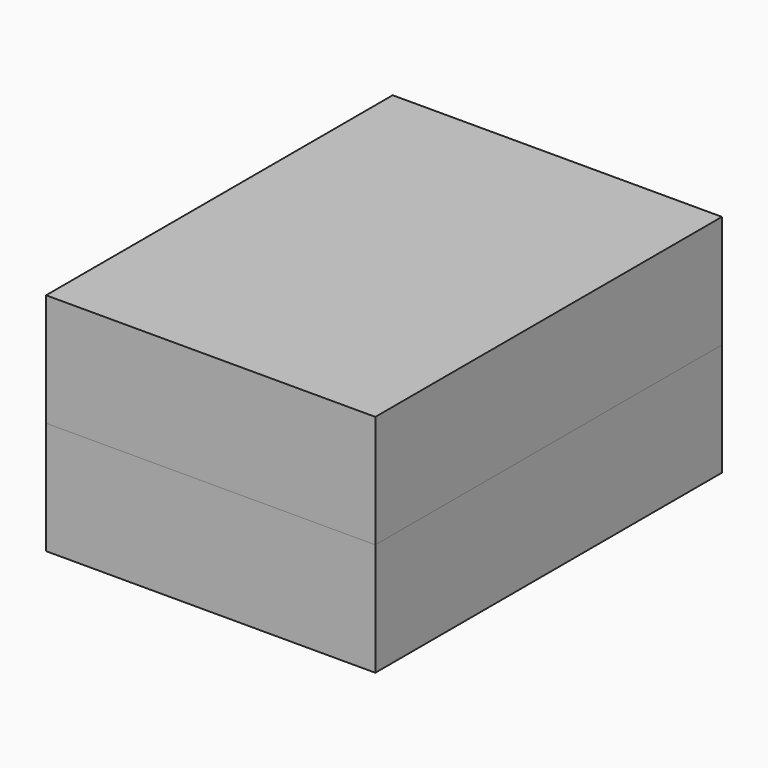
from build123d import *

# Parameters (mm, degrees)
F0_W     = 6.858
F0_H     = 3.048
F1_DEPTH = 25.4
F2_DEPTH = 25.4


with BuildPart() as f1:
    # F0 (on Front) → F1 (new body)
    with BuildSketch(Plane.XZ):
        Polygon((9.652, 0), (9.652, 6.604), (8.128, 6.604), (0, 6.604), (-8.128, 6.604), (-9.652, 6.604), (-9.652, 0), (-6.858, 0), (-6.858, 3.048), (0, 3.048), (6.858, 3.048), (6.858, 0), align=None)
        with Locations((-3.429, 1.524)):
            Rectangle(F0_W, F0_H)
        with Locations((3.429, 1.524)):
            Rectangle(F0_W, F0_H)
    extrude(amount=-F1_DEPTH)


with BuildPart() as f2:
    # F0 (on Front) → F2 (new body)
    with BuildSketch(Plane.XZ):
        Polygon((9.652, -6.604), (9.652, 0), (6.858, 0), (6.858, -3.048), (-6.858, -3.048), (-6.858, 0), (-9.652, 0), (-9.652, -6.604), align=None)
        Polygon((6.858, -3.048), (6.858, 0), (0, 0), (-6.858, 0), (-6.858, -3.048), align=None)
    extrude(amount=-F2_DEPTH)


solid = Compound([f1.part, f2.part])
